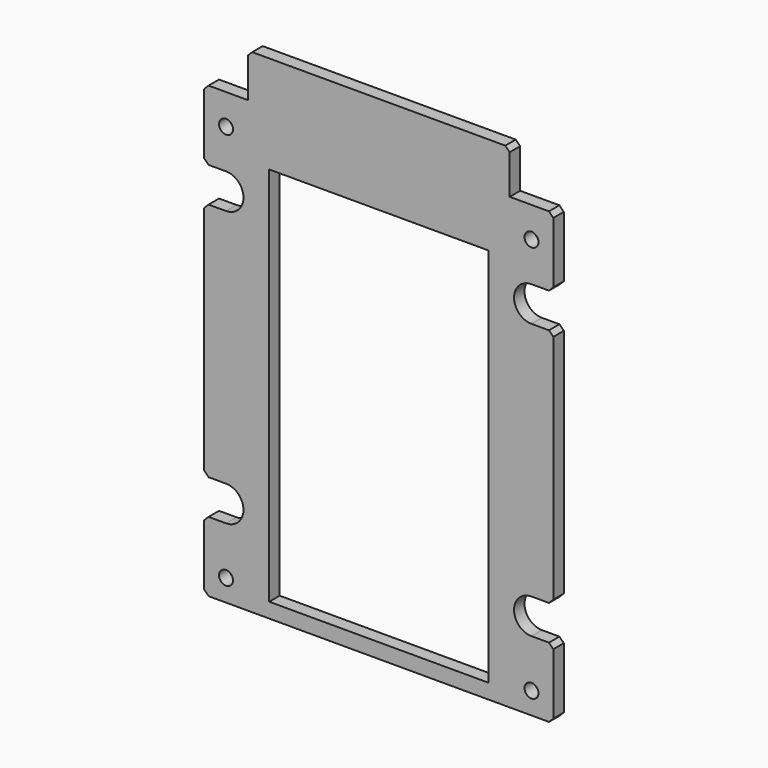
from build123d import *

# Parameters (mm, degrees)
PAD098_DEPTH    = 3
POCKET028_DEPTH = 3.001
SKETCH185_R     = 1.6
SKETCH185_W     = 50
SKETCH185_H     = 69.2
POCKET029_DEPTH = 3.001
SKETCH209_W     = 50.2
SKETCH209_H     = 87.2
POCKET043_DEPTH = 5
CHAMFER073_SIZE = 1
SKETCH214_R     = 1.6
POCKET046_DEPTH = 3.001


with BuildPart() as part:
    # Sketch183 → Pad098 (new body)
    with BuildSketch(Plane(origin=(0, 0, 0), x_dir=(-1, 0, 0), z_dir=(0, 1, 0))):
        Polygon((-40, 310), (-30, 310), (-30, 320), (30, 320), (30, 310), (40, 310), (40, 207), (-40, 207), align=None)
    extrude(amount=PAD098_DEPTH)

    # Sketch184 → Pocket028 (cut, through all)
    with BuildSketch(Plane(origin=(0, 0, 0), x_dir=(-1, 0, 0), z_dir=(0, 1, 0))):
        with BuildLine():
            ThreePointArc((-40, 294), (-44, 290), (-40, 286))
            Line((-40, 286), (-35, 286))
            ThreePointArc((-35, 286), (-31, 290), (-35, 294))
            Line((-35, 294), (-40, 294))
        make_face()
        with BuildLine():
            ThreePointArc((-40, 231), (-44, 227), (-40, 223))
            Line((-40, 223), (-35, 223))
            ThreePointArc((-35, 223), (-31, 227), (-35, 231))
            Line((-35, 231), (-40, 231))
        make_face()
        with BuildLine():
            ThreePointArc((40, 223), (44, 227), (40, 231))
            Line((40, 231), (35, 231))
            ThreePointArc((35, 231), (31, 227), (35, 223))
            Line((35, 223), (40, 223))
        make_face()
        with BuildLine():
            ThreePointArc((40, 286), (44, 290), (40, 294))
            Line((40, 294), (35, 294))
            ThreePointArc((35, 294), (31, 290), (35, 286))
            Line((35, 286), (40, 286))
        make_face()
    extrude(amount=POCKET028_DEPTH, mode=Mode.SUBTRACT)

    # Sketch185 (on Face5 of Pocket028) → Pocket029 (cut, through all)
    with BuildSketch(Plane(origin=(0, 3, 0), x_dir=(-1, 0, 0), z_dir=(0, 1, 0))):
        with Locations((22, 217.92)):
            Circle(SKETCH185_R)
        with Locations((-22, 217.92)):
            Circle(SKETCH185_R)
        with Locations((-22, 294)):
            Circle(SKETCH185_R)
        with Locations((22, 294)):
            Circle(SKETCH185_R)
        with Locations((0, 256)):
            Rectangle(SKETCH185_W, SKETCH185_H)
    extrude(amount=-POCKET029_DEPTH, mode=Mode.SUBTRACT)

    # Sketch209 (on Face5 of Pocket029) → Pocket043 (cut)
    with BuildSketch(Plane(origin=(0, 3, 0), x_dir=(-1, 0, 0), z_dir=(0, 1, 0))):
        with Locations((0, 254)):
            Rectangle(SKETCH209_W, SKETCH209_H)
    extrude(amount=-POCKET043_DEPTH, mode=Mode.SUBTRACT)

    # Chamfer073
    chamfer073_edges = [part.edges().sort_by_distance(p)[0] for p in [
        (-30, 1.5, 320),
        (-40, 1.5, 310),
        (-40, 1.5, 294),
        (-40, 1.5, 286),
        (-40, 1.5, 223),
        (-40, 1.5, 231),
        (-40, 1.5, 207),
        (40, 1.5, 207),
        (40, 1.5, 223),
        (40, 1.5, 231),
        (40, 1.5, 294),
        (40, 1.5, 286),
        (40, 1.5, 310),
        (30, 1.5, 320),
    ]]
    chamfer(chamfer073_edges, length=CHAMFER073_SIZE)

    # Sketch214 (on Face5 of Chamfer073) → Pocket046 (cut, through all)
    with BuildSketch(Plane(origin=(0, 3, 0), x_dir=(-1, 0, 0), z_dir=(0, 1, 0))):
        with Locations((35, 212)):
            Circle(SKETCH214_R)
        with Locations((-35, 212)):
            Circle(SKETCH214_R)
        with Locations((-35, 303)):
            Circle(SKETCH214_R)
        with Locations((35, 303)):
            Circle(SKETCH214_R)
    extrude(amount=-POCKET046_DEPTH, mode=Mode.SUBTRACT)


with BuildPart() as part_1:
    # Body086 placement: moved
    add(part.part.moved(Location((0, 75, 0))))


solid = part_1.part
